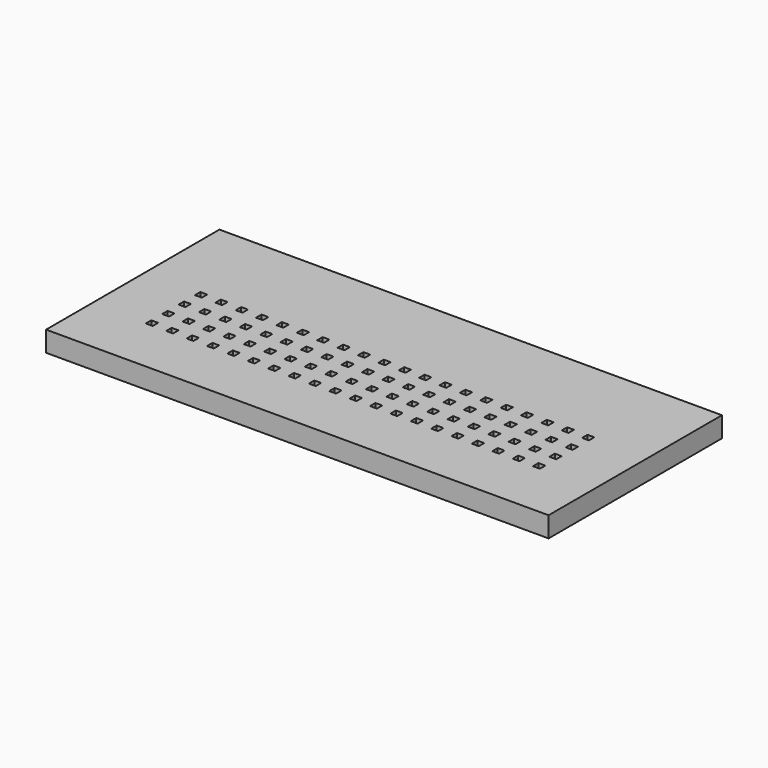
from build123d import *

# Parameters (mm, degrees)
SKETCH_W   = 29.538178
SKETCH_H   = 12.735668
SKETCH_W_2 = 0.4
SKETCH_H_2 = 0.4
SKETCH_W_3 = 0.402134
SKETCH_W_4 = 0.40145
SKETCH_H_3 = 0.398799
PAD_DEPTH  = 1.2


with BuildPart() as part:
    # Sketch → Pad (new body)
    with BuildSketch(Plane.XY):
        with Locations((15.573072, 26.224437)):
            Rectangle(SKETCH_W, SKETCH_H)
        with Locations((4.2, 27)):
            Rectangle(SKETCH_W_2, SKETCH_H_2, mode=Mode.SUBTRACT)
        with Locations((5.396954, 27.001032)):
            Rectangle(SKETCH_W_2, SKETCH_H_2, mode=Mode.SUBTRACT)
        with Locations((6.593908, 27.002064)):
            Rectangle(SKETCH_W_2, SKETCH_H_2, mode=Mode.SUBTRACT)
        with Locations((7.790862, 27.003096)):
            Rectangle(SKETCH_W_2, SKETCH_H_2, mode=Mode.SUBTRACT)
        with Locations((8.987816, 27.004128)):
            Rectangle(SKETCH_W_2, SKETCH_H_2, mode=Mode.SUBTRACT)
        with Locations((10.18477, 27.00516)):
            Rectangle(SKETCH_W_2, SKETCH_H_2, mode=Mode.SUBTRACT)
        with Locations((11.381724, 27.006192)):
            Rectangle(SKETCH_W_2, SKETCH_H_2, mode=Mode.SUBTRACT)
        with Locations((12.578678, 27.007224)):
            Rectangle(SKETCH_W_2, SKETCH_H_2, mode=Mode.SUBTRACT)
        with Locations((13.775632, 27.008256)):
            Rectangle(SKETCH_W_2, SKETCH_H_2, mode=Mode.SUBTRACT)
        with Locations((14.972586, 27.009288)):
            Rectangle(SKETCH_W_2, SKETCH_H_2, mode=Mode.SUBTRACT)
        with Locations((16.16954, 27.01032)):
            Rectangle(SKETCH_W_2, SKETCH_H_2, mode=Mode.SUBTRACT)
        with Locations((17.366494, 27.011352)):
            Rectangle(SKETCH_W_2, SKETCH_H_2, mode=Mode.SUBTRACT)
        with Locations((18.563448, 27.012384)):
            Rectangle(SKETCH_W_2, SKETCH_H_2, mode=Mode.SUBTRACT)
        with Locations((19.760402, 27.013416)):
            Rectangle(SKETCH_W_2, SKETCH_H_2, mode=Mode.SUBTRACT)
        with Locations((20.957356, 27.014448)):
            Rectangle(SKETCH_W_2, SKETCH_H_2, mode=Mode.SUBTRACT)
        with Locations((22.15431, 27.01548)):
            Rectangle(SKETCH_W_2, SKETCH_H_2, mode=Mode.SUBTRACT)
        with Locations((23.351264, 27.016512)):
            Rectangle(SKETCH_W_2, SKETCH_H_2, mode=Mode.SUBTRACT)
        with Locations((24.548218, 27.017544)):
            Rectangle(SKETCH_W_2, SKETCH_H_2, mode=Mode.SUBTRACT)
        with Locations((25.745172, 27.018576)):
            Rectangle(SKETCH_W_2, SKETCH_H_2, mode=Mode.SUBTRACT)
        with Locations((26.941059, 27.019608)):
            Rectangle(SKETCH_W_3, SKETCH_H_2, mode=Mode.SUBTRACT)
        with Locations((4.199316, 25.798799)):
            Rectangle(SKETCH_W_2, SKETCH_H_2, mode=Mode.SUBTRACT)
        with Locations((5.39627, 25.799831)):
            Rectangle(SKETCH_W_2, SKETCH_H_2, mode=Mode.SUBTRACT)
        with Locations((6.593224, 25.800863)):
            Rectangle(SKETCH_W_2, SKETCH_H_2, mode=Mode.SUBTRACT)
        with Locations((7.790178, 25.801895)):
            Rectangle(SKETCH_W_2, SKETCH_H_2, mode=Mode.SUBTRACT)
        with Locations((8.987132, 25.802927)):
            Rectangle(SKETCH_W_2, SKETCH_H_2, mode=Mode.SUBTRACT)
        with Locations((10.184086, 25.803959)):
            Rectangle(SKETCH_W_2, SKETCH_H_2, mode=Mode.SUBTRACT)
        with Locations((11.38104, 25.804991)):
            Rectangle(SKETCH_W_2, SKETCH_H_2, mode=Mode.SUBTRACT)
        with Locations((12.577994, 25.806023)):
            Rectangle(SKETCH_W_2, SKETCH_H_2, mode=Mode.SUBTRACT)
        with Locations((13.774948, 25.807055)):
            Rectangle(SKETCH_W_2, SKETCH_H_2, mode=Mode.SUBTRACT)
        with Locations((14.971902, 25.808087)):
            Rectangle(SKETCH_W_2, SKETCH_H_2, mode=Mode.SUBTRACT)
        with Locations((16.168856, 25.809119)):
            Rectangle(SKETCH_W_2, SKETCH_H_2, mode=Mode.SUBTRACT)
        with Locations((17.36581, 25.810151)):
            Rectangle(SKETCH_W_2, SKETCH_H_2, mode=Mode.SUBTRACT)
        with Locations((18.562764, 25.811183)):
            Rectangle(SKETCH_W_2, SKETCH_H_2, mode=Mode.SUBTRACT)
        with Locations((19.759718, 25.812215)):
            Rectangle(SKETCH_W_2, SKETCH_H_2, mode=Mode.SUBTRACT)
        with Locations((20.956672, 25.813247)):
            Rectangle(SKETCH_W_2, SKETCH_H_2, mode=Mode.SUBTRACT)
        with Locations((22.153626, 25.814279)):
            Rectangle(SKETCH_W_2, SKETCH_H_2, mode=Mode.SUBTRACT)
        with Locations((23.35058, 25.815311)):
            Rectangle(SKETCH_W_2, SKETCH_H_2, mode=Mode.SUBTRACT)
        with Locations((24.547534, 25.816343)):
            Rectangle(SKETCH_W_2, SKETCH_H_2, mode=Mode.SUBTRACT)
        with Locations((25.744488, 25.817375)):
            Rectangle(SKETCH_W_2, SKETCH_H_2, mode=Mode.SUBTRACT)
        with Locations((26.940717, 25.819007)):
            Rectangle(SKETCH_W_4, SKETCH_H_3, mode=Mode.SUBTRACT)
        with Locations((4.198632, 24.597598)):
            Rectangle(SKETCH_W_2, SKETCH_H_2, mode=Mode.SUBTRACT)
        with Locations((5.395586, 24.59863)):
            Rectangle(SKETCH_W_2, SKETCH_H_2, mode=Mode.SUBTRACT)
        with Locations((6.59254, 24.599662)):
            Rectangle(SKETCH_W_2, SKETCH_H_2, mode=Mode.SUBTRACT)
        with Locations((7.789494, 24.600694)):
            Rectangle(SKETCH_W_2, SKETCH_H_2, mode=Mode.SUBTRACT)
        with Locations((8.986448, 24.601726)):
            Rectangle(SKETCH_W_2, SKETCH_H_2, mode=Mode.SUBTRACT)
        with Locations((10.183402, 24.602758)):
            Rectangle(SKETCH_W_2, SKETCH_H_2, mode=Mode.SUBTRACT)
        with Locations((11.380356, 24.60379)):
            Rectangle(SKETCH_W_2, SKETCH_H_2, mode=Mode.SUBTRACT)
        with Locations((12.57731, 24.604822)):
            Rectangle(SKETCH_W_2, SKETCH_H_2, mode=Mode.SUBTRACT)
        with Locations((13.774264, 24.605854)):
            Rectangle(SKETCH_W_2, SKETCH_H_2, mode=Mode.SUBTRACT)
        with Locations((14.971218, 24.606886)):
            Rectangle(SKETCH_W_2, SKETCH_H_2, mode=Mode.SUBTRACT)
        with Locations((16.168172, 24.607918)):
            Rectangle(SKETCH_W_2, SKETCH_H_2, mode=Mode.SUBTRACT)
        with Locations((17.365126, 24.60895)):
            Rectangle(SKETCH_W_2, SKETCH_H_2, mode=Mode.SUBTRACT)
        with Locations((18.56208, 24.609982)):
            Rectangle(SKETCH_W_2, SKETCH_H_2, mode=Mode.SUBTRACT)
        with Locations((19.759034, 24.611014)):
            Rectangle(SKETCH_W_2, SKETCH_H_2, mode=Mode.SUBTRACT)
        with Locations((20.955988, 24.612046)):
            Rectangle(SKETCH_W_2, SKETCH_H_2, mode=Mode.SUBTRACT)
        with Locations((22.152942, 24.613078)):
            Rectangle(SKETCH_W_2, SKETCH_H_2, mode=Mode.SUBTRACT)
        with Locations((23.349896, 24.61411)):
            Rectangle(SKETCH_W_2, SKETCH_H_2, mode=Mode.SUBTRACT)
        with Locations((24.54685, 24.615142)):
            Rectangle(SKETCH_W_2, SKETCH_H_2, mode=Mode.SUBTRACT)
        with Locations((25.743804, 24.616174)):
            Rectangle(SKETCH_W_2, SKETCH_H_2, mode=Mode.SUBTRACT)
        with Locations((26.939691, 24.617206)):
            Rectangle(SKETCH_W_3, SKETCH_H_2, mode=Mode.SUBTRACT)
        with Locations((4.197948, 23.396397)):
            Rectangle(SKETCH_W_2, SKETCH_H_2, mode=Mode.SUBTRACT)
        with Locations((5.394902, 23.397429)):
            Rectangle(SKETCH_W_2, SKETCH_H_2, mode=Mode.SUBTRACT)
        with Locations((6.591856, 23.398461)):
            Rectangle(SKETCH_W_2, SKETCH_H_2, mode=Mode.SUBTRACT)
        with Locations((7.78881, 23.399493)):
            Rectangle(SKETCH_W_2, SKETCH_H_2, mode=Mode.SUBTRACT)
        with Locations((8.985764, 23.400525)):
            Rectangle(SKETCH_W_2, SKETCH_H_2, mode=Mode.SUBTRACT)
        with Locations((10.182718, 23.401557)):
            Rectangle(SKETCH_W_2, SKETCH_H_2, mode=Mode.SUBTRACT)
        with Locations((11.379672, 23.402589)):
            Rectangle(SKETCH_W_2, SKETCH_H_2, mode=Mode.SUBTRACT)
        with Locations((12.576626, 23.403621)):
            Rectangle(SKETCH_W_2, SKETCH_H_2, mode=Mode.SUBTRACT)
        with Locations((13.77358, 23.404653)):
            Rectangle(SKETCH_W_2, SKETCH_H_2, mode=Mode.SUBTRACT)
        with Locations((14.970534, 23.405685)):
            Rectangle(SKETCH_W_2, SKETCH_H_2, mode=Mode.SUBTRACT)
        with Locations((16.167488, 23.406717)):
            Rectangle(SKETCH_W_2, SKETCH_H_2, mode=Mode.SUBTRACT)
        with Locations((17.364442, 23.407749)):
            Rectangle(SKETCH_W_2, SKETCH_H_2, mode=Mode.SUBTRACT)
        with Locations((18.561396, 23.408781)):
            Rectangle(SKETCH_W_2, SKETCH_H_2, mode=Mode.SUBTRACT)
        with Locations((19.75835, 23.409813)):
            Rectangle(SKETCH_W_2, SKETCH_H_2, mode=Mode.SUBTRACT)
        with Locations((20.955304, 23.410845)):
            Rectangle(SKETCH_W_2, SKETCH_H_2, mode=Mode.SUBTRACT)
        with Locations((22.152258, 23.411877)):
            Rectangle(SKETCH_W_2, SKETCH_H_2, mode=Mode.SUBTRACT)
        with Locations((23.349212, 23.412909)):
            Rectangle(SKETCH_W_2, SKETCH_H_2, mode=Mode.SUBTRACT)
        with Locations((24.546166, 23.413941)):
            Rectangle(SKETCH_W_2, SKETCH_H_2, mode=Mode.SUBTRACT)
        with Locations((25.74312, 23.414973)):
            Rectangle(SKETCH_W_2, SKETCH_H_2, mode=Mode.SUBTRACT)
        with Locations((26.939007, 23.416005)):
            Rectangle(SKETCH_W_3, SKETCH_H_2, mode=Mode.SUBTRACT)
    extrude(amount=PAD_DEPTH)


solid = part.part
